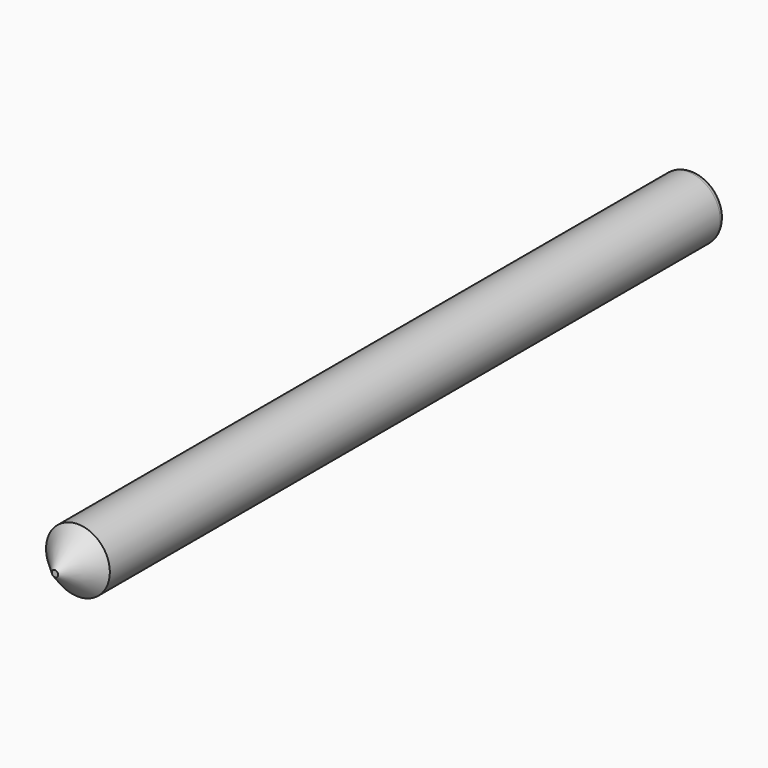
from build123d import *

# Parameters (mm, degrees)
F0_R     = 2.54
F1_DEPTH = 63.5
F2_R     = 0.508
F3_SIZE  = 2.286


with BuildPart() as f1:
    # F0 (on Front) → F1 (new body)
    with BuildSketch(Plane.XZ):
        with Locations((-11.582997, 5.600415)):
            Circle(F0_R)
    extrude(amount=F1_DEPTH)

    # F2
    f2_edges = [f1.edges().sort_by_distance(p)[0] for p in [
        (-14.122997, 0, 5.600415),
    ]]
    fillet(f2_edges, radius=F2_R)

    # F3
    f3_edges = [f1.edges().sort_by_distance(p)[0] for p in [
        (-14.122997, -63.5, 5.600415),
    ]]
    chamfer(f3_edges, length=F3_SIZE)


solid = f1.part
